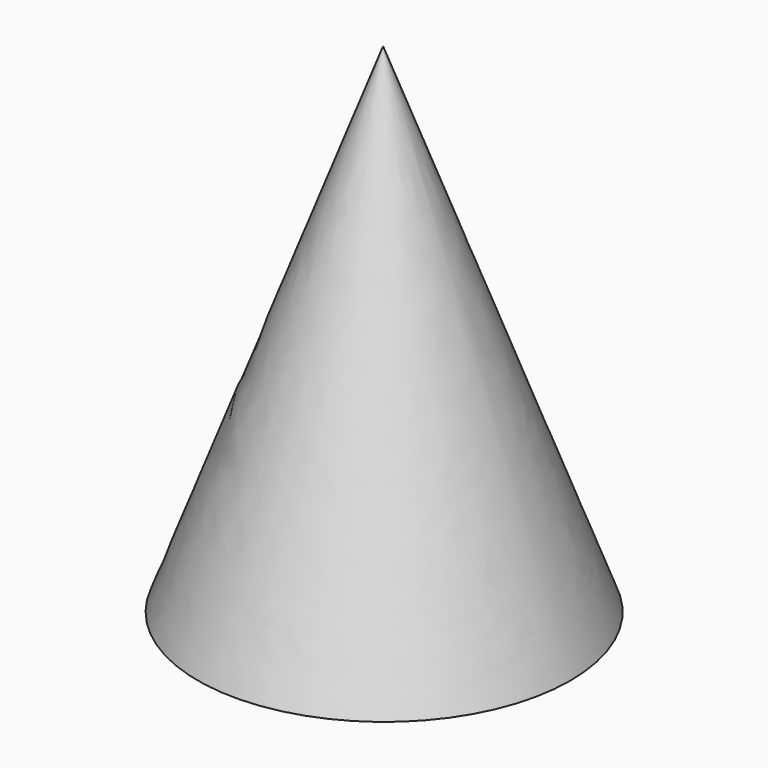
from build123d import *

# Parameters (mm, degrees)
F0_R = 7.5


with BuildPart() as f3:
    # F0 (on Top) → F3 section 0
    with BuildSketch(Plane.XY, mode=Mode.PRIVATE) as f3_s0:
        with Locations((-29.884009, 11.11016)):
            Circle(F0_R)
    loft([Vertex(-29.969709, 11.164771, 20), f3_s0.sketch])


solid = f3.part
